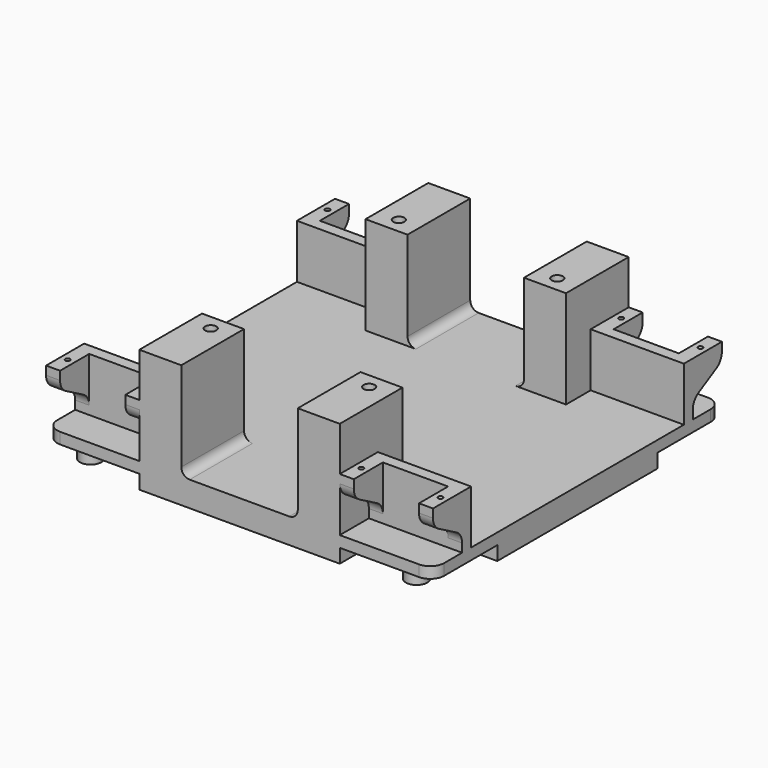
from build123d import *

# Parameters (mm, degrees)
F1_W      = 5
F1_H      = 7.2
F1_H_2    = 6
F1_H_3    = 4
F1_W_2    = 23.3
F3_DEPTH  = 8.5
F4_DEPTH  = 23.2
F5_DEPTH  = 18.1
F6_START  = 4.3
F0_R      = 0.85
F6_DEPTH  = 20.7
F0_R_2    = 3.8
F7_DEPTH  = 5
F11_W     = 15
F11_H     = 11
F11_H_2   = 17
F11_W_2   = 4.6
F11_H_3   = 11.7
F11_W_3   = 28.7
F11_H_4   = 71.6
F12_DEPTH = 4
F13_DEPTH = 5
F14_DEPTH = 39
F16_R     = 3
F17_R     = 5
F15_R     = 1.985
F18_DEPTH = 10


with BuildPart() as f3:
    # F1 (on Front) → F3 (new body, symmetric)
    with BuildSketch(Plane.XZ):
        with Locations((-14.15, 13.6)):
            Rectangle(F1_W, F1_H)
        with Locations((-14.15, 20.2)):
            Rectangle(F1_W, F1_H_2)
        with Locations((-14.15, 7)):
            Rectangle(F1_W, F1_H_2)
        with Locations((-14.15, 2)):
            Rectangle(F1_W, F1_H_3)
        with Locations((0, 2)):
            Rectangle(F1_W_2, F1_H_3)
        with Locations((14.15, 2)):
            Rectangle(F1_W, F1_H_3)
        with Locations((14.15, 7)):
            Rectangle(F1_W, F1_H_2)
        with Locations((14.15, 13.6)):
            Rectangle(F1_W, F1_H)
        with Locations((14.15, 20.2)):
            Rectangle(F1_W, F1_H_2)
    extrude(amount=F3_DEPTH, both=True)

    # F0 (on Top) → F4 (join)
    with BuildSketch(Plane.XY):
        Polygon((11.65, 4.5), (11.65, 8.5), (0, 8.5), (-11.65, 8.5), (-11.65, 4.5), align=None)
    extrude(amount=F4_DEPTH)

    # F2 (on Right) → F5 (cut, symmetric)
    with BuildSketch(Plane.YZ):
        with BuildLine():
            Line((-8.5, 17.2), (-8.5, 10))
            Line((-8.5, 10), (3.5396314061, 10))
            ThreePointArc((3.5396314061, 10), (2.8089650426, 10.8020152096), (1.9224991399, 11.4275389379))
            Line((1.9224991399, 11.4275389379), (-5.9224991399, 15.7724610621))
            ThreePointArc((-5.9224991399, 15.7724610621), (-6.8089650426, 16.3979847904), (-7.5396314061, 17.2))
            Line((-7.5396314061, 17.2), (-8.5, 17.2))
        make_face()
        with BuildLine():
            Line((-8.5, 20.1464178425), (-8.5, 17.2))
            Line((-8.5, 17.2), (-7.5396314061, 17.2))
            ThreePointArc((-7.5396314061, 17.2), (-8.2538488107, 18.5969271247), (-8.5, 20.1464178425))
        make_face()
        with BuildLine():
            Line((-8.5, 10), (-8.5, 4))
            Line((-8.5, 4), (4.5, 4))
            Line((4.5, 4), (4.5, 7.0535821575))
            ThreePointArc((4.5, 7.0535821575), (4.2538488107, 8.6030728753), (3.5396314061, 10))
            Line((3.5396314061, 10), (-8.5, 10))
        make_face()
    extrude(amount=F5_DEPTH, both=True, mode=Mode.SUBTRACT)

    # F0 (on Top) → F6 (cut)
    with BuildSketch(Plane.XY.offset(F6_START)):
        with Locations((14.15, -2)):
            Circle(F0_R)
        with Locations((-14.15, -2)):
            Circle(F0_R)
    extrude(amount=F6_DEPTH, mode=Mode.SUBTRACT)

    # F0 (on Top) → F7 (join)
    with BuildSketch(Plane.XY):
        with Locations((5.75, -2.2)):
            Circle(F0_R_2)
    extrude(amount=-F7_DEPTH)


with BuildPart() as f3_1:
    # F8: moved
    add(f3.part.moved(Location((52.45, -56, 0))))


with BuildPart() as f9_1:
    # F9: instance of F3
    add(f3_1.part.mirror(Plane.XZ))


with BuildPart() as f10_1:
    # F10: instance of F9_1
    add(f9_1.part.mirror(Plane.YZ))


with BuildPart() as f10_2:
    # F10: instance of F3
    add(f3_1.part.mirror(Plane.YZ))


with BuildPart() as f3_2:
    add(f3_1.part)

    add(f9_1.part)  # F12 merges F9_1

    add(f10_1.part)  # F12 merges F10_1

    add(f10_2.part)  # F12 merges F10_2
    # F11 (on Top) → F12 (join)
    with BuildSketch(Plane.XY):
        Polygon((20.8, 47.5), (20.8, 64.5), (-20.8, 64.5), (-20.8, 47.5), (-20.8, 36.5), (-35.8, 36.5), (-35.8, 35.8), (-35.8, -35.8), (-35.8, -36.5), (-20.8, -36.5), (-20.8, -47.5), (-20.8, -64.5), (20.8, -64.5), (20.8, -47.5), (20.8, -36.5), (20.8, 36.5), align=None)
        with Locations((-28.3, -42)):
            Rectangle(F11_W, F11_H)
        with Locations((-28.3, -56)):
            Rectangle(F11_W, F11_H_2)
        Polygon((-35.8, -35.8), (-64.5, -35.8), (-64.5, -47.5), (-35.8, -47.5), (-35.8, -36.5), align=None)
        with Locations((-66.8, -41.65)):
            Rectangle(F11_W_2, F11_H_3)
        with Locations((-50.15, 0)):
            Rectangle(F11_W_3, F11_H_4)
        with Locations((-66.8, 0)):
            Rectangle(F11_W_2, F11_H_4)
        with Locations((28.3, -56)):
            Rectangle(F11_W, F11_H_2)
        with Locations((28.3, -42)):
            Rectangle(F11_W, F11_H)
        Polygon((64.5, -47.5), (64.5, -35.8), (35.8, -35.8), (35.8, -36.5), (35.8, -47.5), align=None)
        Polygon((64.5, -35.8), (64.5, 35.8), (35.8, 35.8), (35.8, 36.5), (20.8, 36.5), (20.8, -36.5), (35.8, -36.5), (35.8, -35.8), align=None)
        with Locations((66.8, 0)):
            Rectangle(F11_W_2, F11_H_4)
        with Locations((66.8, -41.65)):
            Rectangle(F11_W_2, F11_H_3)
        with Locations((28.3, 56)):
            Rectangle(F11_W, F11_H_2)
        with Locations((28.3, 42)):
            Rectangle(F11_W, F11_H)
        Polygon((64.5, 35.8), (64.5, 47.5), (35.8, 47.5), (35.8, 36.5), (35.8, 35.8), align=None)
        with Locations((66.8, 41.65)):
            Rectangle(F11_W_2, F11_H_3)
        with Locations((-28.3, 56)):
            Rectangle(F11_W, F11_H_2)
        with Locations((-28.3, 42)):
            Rectangle(F11_W, F11_H)
        Polygon((-35.8, 36.5), (-35.8, 47.5), (-64.5, 47.5), (-64.5, 35.8), (-35.8, 35.8), align=None)
        with Locations((-66.8, 41.65)):
            Rectangle(F11_W_2, F11_H_3)
    extrude(amount=F12_DEPTH)

    # F11 (on Top) → F13 (join)
    with BuildSketch(Plane.XY):
        Polygon((20.8, 47.5), (20.8, 64.5), (-20.8, 64.5), (-20.8, 47.5), (-20.8, 36.5), (-35.8, 36.5), (-35.8, 35.8), (-35.8, -35.8), (-35.8, -36.5), (-20.8, -36.5), (-20.8, -47.5), (-20.8, -64.5), (20.8, -64.5), (20.8, -47.5), (20.8, -36.5), (20.8, 36.5), align=None)
        with Locations((-50.15, 0)):
            Rectangle(F11_W_3, F11_H_4)
        with Locations((-66.8, 0)):
            Rectangle(F11_W_2, F11_H_4)
        with Locations((-28.3, -42)):
            Rectangle(F11_W, F11_H)
        with Locations((-28.3, -56)):
            Rectangle(F11_W, F11_H_2)
        with Locations((28.3, -56)):
            Rectangle(F11_W, F11_H_2)
        with Locations((28.3, -42)):
            Rectangle(F11_W, F11_H)
        Polygon((64.5, -35.8), (64.5, 35.8), (35.8, 35.8), (35.8, 36.5), (20.8, 36.5), (20.8, -36.5), (35.8, -36.5), (35.8, -35.8), align=None)
        with Locations((66.8, 0)):
            Rectangle(F11_W_2, F11_H_4)
        with Locations((28.3, 42)):
            Rectangle(F11_W, F11_H)
        with Locations((28.3, 56)):
            Rectangle(F11_W, F11_H_2)
        with Locations((-28.3, 56)):
            Rectangle(F11_W, F11_H_2)
        with Locations((-28.3, 42)):
            Rectangle(F11_W, F11_H)
    extrude(amount=-F13_DEPTH)

    # F11 (on Top) → F14 (join)
    with BuildSketch(Plane.XY):
        with Locations((-28.3, -56)):
            Rectangle(F11_W, F11_H_2)
        with Locations((-28.3, -42)):
            Rectangle(F11_W, F11_H)
        with Locations((28.3, -42)):
            Rectangle(F11_W, F11_H)
        with Locations((28.3, -56)):
            Rectangle(F11_W, F11_H_2)
        with Locations((28.3, 42)):
            Rectangle(F11_W, F11_H)
        with Locations((28.3, 56)):
            Rectangle(F11_W, F11_H_2)
        with Locations((-28.3, 42)):
            Rectangle(F11_W, F11_H)
        with Locations((-28.3, 56)):
            Rectangle(F11_W, F11_H_2)
    extrude(amount=F14_DEPTH)

    # F16
    f16_edges = [f3_2.edges().sort_by_distance(p)[0] for p in [
        (20.8, -50.5, 4),
        (20.8, 50.5, 4),
        (-20.8, 50.5, 4),
        (-20.8, -50.5, 4),
    ]]
    fillet(f16_edges, radius=F16_R)

    # F17
    f17_edges = [f3_2.edges().sort_by_distance(p)[0] for p in [
        (69.1, -64.5, 2),
        (69.1, 64.5, 2),
        (-69.1, 64.5, 2),
        (-69.1, -64.5, 2),
    ]]
    fillet(f17_edges, radius=F17_R)

    # F15 (on face) → F18 (cut)
    with BuildSketch(Plane.XY.offset(39)):
        with Locations((-28.3, -42)):
            Circle(F15_R)
        with Locations((28.3, -42)):
            Circle(F15_R)
        with Locations((28.3, 42)):
            Circle(F15_R)
        with Locations((-28.3, 42)):
            Circle(F15_R)
    extrude(amount=-F18_DEPTH, mode=Mode.SUBTRACT)


solid = f3_2.part
